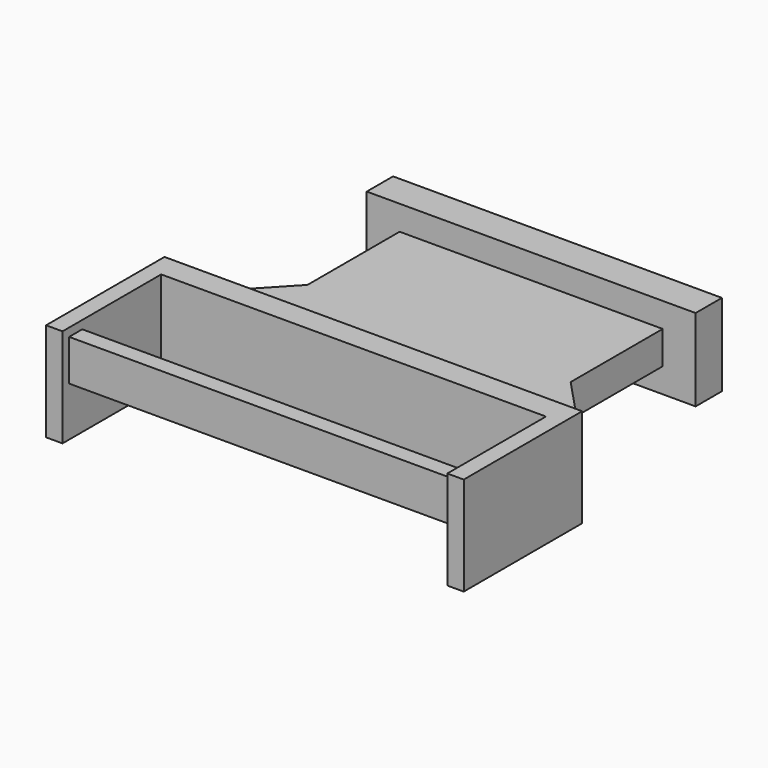
from build123d import *

# Parameters (mm, degrees)
F0_W      = 20
F0_H      = 5
F1_DEPTH  = 2
F2_W      = 16
F2_H      = 2
F3_DEPTH  = 7
F5_DEPTH  = 2
F6_W      = 25.4
F6_H      = 6
F7_DEPTH  = 1.5
F8_W      = 1
F8_H      = 6
F9_DEPTH  = 7.5
F10_W     = 1
F10_H     = 2.5
F11_DEPTH = 23.4


with BuildPart() as f1:
    # F0 (on Front) → F1 (new body)
    with BuildSketch(Plane.XZ):
        Rectangle(F0_W, F0_H)
    extrude(amount=F1_DEPTH)

    # F2 (on face) → F3 (join)
    with BuildSketch(Plane.XZ.offset(2)):
        Rectangle(F2_W, F2_H)
    extrude(amount=F3_DEPTH)

    # F4 (on face) → F5 (join, through all)
    with BuildSketch(Plane.XY.offset(1)):
        Polygon((12.7, -14), (8, -9), (-8, -9), (-12.7, -14), align=None)
    extrude(amount=-F5_DEPTH)

    # F6 (on face) → F7 (join)
    with BuildSketch(Plane.XZ.offset(14)):
        Rectangle(F6_W, F6_H)
    extrude(amount=F7_DEPTH)

    # F8 (on face) → F9 (join)
    with BuildSketch(Plane.XZ.offset(15.5)):
        with Locations((-12.2, 0)):
            Rectangle(F8_W, F8_H)
        with Locations((12.2, 0)):
            Rectangle(F8_W, F8_H)
    extrude(amount=F9_DEPTH)

    # F10 (on face) → F11 (join, through all)
    with BuildSketch(Plane.YZ.offset(-11.7)):
        with Locations((-22, 1.25)):
            Rectangle(F10_W, F10_H)
    extrude(amount=F11_DEPTH)


solid = f1.part
